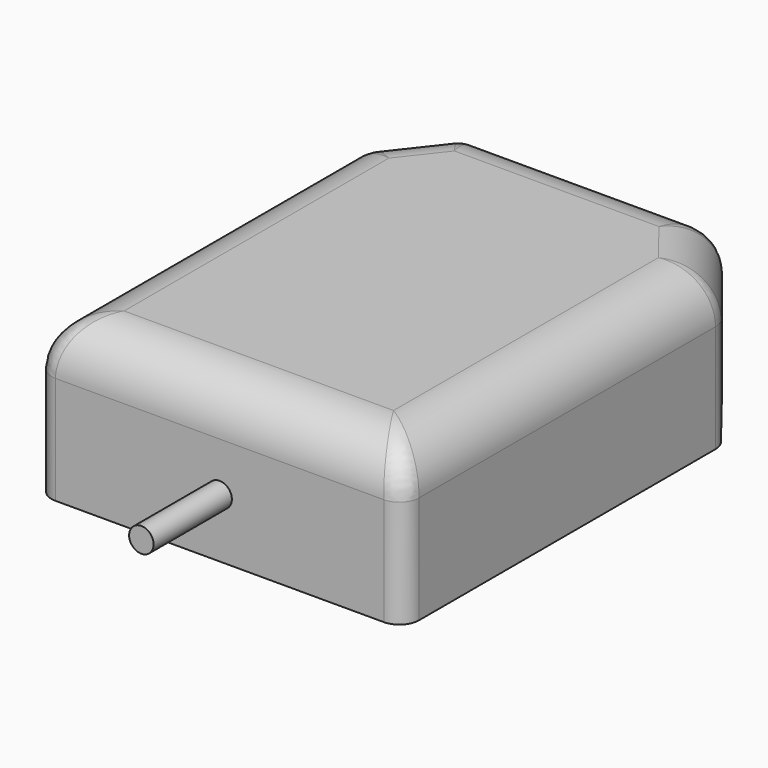
from build123d import *

# Parameters (mm, degrees)
CYLINDER019_R             = 1.25
CYLINDER019_DEPTH         = 10
EXTRUDE002_DEPTH          = 16
FILLET_R                  = 5
FILLET001_R               = 2
FUSION001_PLACEMENT_ANGLE = 180


with BuildPart() as cylinder019:
    # Cylinder019 → Cylinder019 (new body)
    with BuildSketch(Plane(origin=(18.75, 47.98, 6), x_dir=(1, 0, 0), z_dir=(0, 1, 0))):
        Circle(CYLINDER019_R)
    extrude(amount=CYLINDER019_DEPTH)


with BuildPart() as gps002:
    # Sketch016 → Extrude002 (new body)
    with BuildSketch(Plane.XY):
        Polygon((5.88, 0), (31.63, 0), (37.5, 7.5), (37.5, 48), (0, 48), (0, 7.5), align=None)
    extrude(amount=EXTRUDE002_DEPTH)

    # Fillet
    fillet_edges = [gps002.edges().sort_by_distance(p)[0] for p in [
        (18.755, 0, 16),
        (34.565, 3.75, 16),
        (37.5, 27.75, 16),
        (18.75, 48, 16),
        (0, 27.75, 16),
        (2.94, 3.75, 16),
    ]]
    fillet(fillet_edges, radius=FILLET_R)

    # Fillet001
    fillet001_edges = [gps002.edges().sort_by_distance(p)[0] for p in [
        (5.88, 0, 5.5),
        (31.63, 0, 5.5),
        (0, 7.5, 5.5),
        (37.5, 7.5, 5.5),
        (0, 48, 5.5),
        (37.5, 48, 5.5),
    ]]
    fillet(fillet001_edges, radius=FILLET001_R)

    # Fusion001: union Cylinder019
    add(cylinder019.part)


with BuildPart() as gps002_1:
    # Fusion001 placement: moved
    add(gps002.part.moved(Location((91.67, 220, 40))).rotate(Axis((91.67, 220, 40), (0, 0, 1)), FUSION001_PLACEMENT_ANGLE))


solid = gps002_1.part
